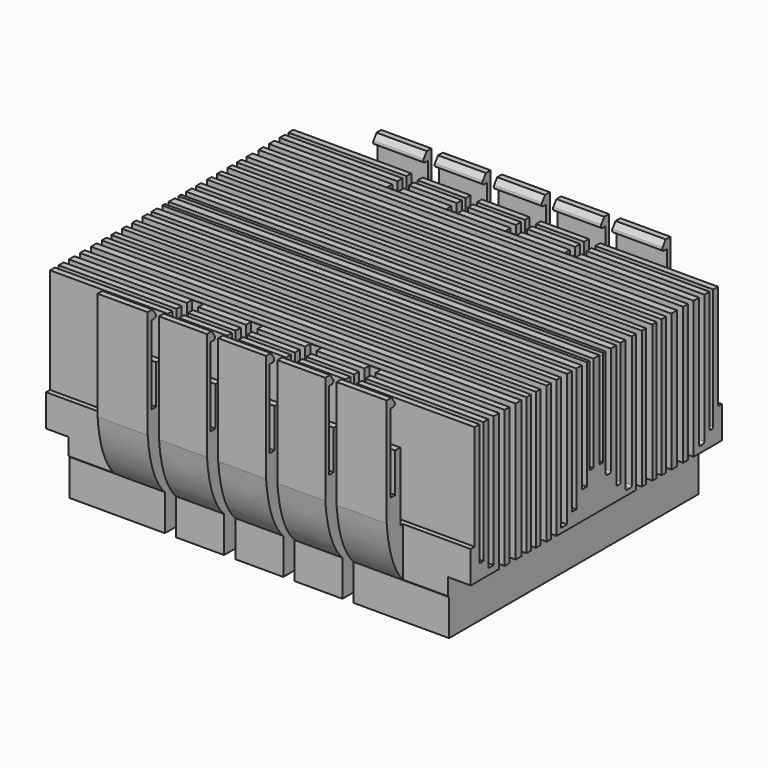
from build123d import *

# Parameters (mm, degrees)
SKETCH027_W     = 94
SKETCH027_H     = 78.5
PAD010_DEPTH    = 45
POCKET013_DEPTH = 354.9473546402
SKETCH034_W     = 80
SKETCH034_H     = 12
POCKET012_DEPTH = 5
SKETCH025_W     = 18
SKETCH025_H     = 45
POCKET023_DEPTH = 4.5
SKETCH026_W     = 2.5
SKETCH026_H     = 15
POCKET022_DEPTH = 305.947355407
POCKET020_DEPTH = 354.947355407
FILLET010_R     = 0.5
FILLET009_R     = 0.4


with BuildPart() as part:
    # Sketch027 → Pad010 (new body)
    with BuildSketch(Plane.XY):
        Rectangle(SKETCH027_W, SKETCH027_H)
    extrude(amount=PAD010_DEPTH)

    # Sketch037 (on Face2 of Pad010) → Pocket013 (cut, through all)
    with BuildSketch(Plane.YZ.offset(47)):
        with BuildLine():
            Line((-39.25, 45), (-39.25, 21))
            add(Edge.make_bspline(
                [(-39.25, 21), (-38.492661, 12.046706), (-34.5, 8)],
                knots=[0, 0, 0, 1, 1, 1], degree=2))
            Line((-34.5, 8), (-34.5, -2))
            Line((-34.5, -2), (-44.25, -2))
            Line((-44.25, -2), (-44.25, 48))
            Line((-44.25, 48), (-39.25, 48))
            Line((-39.25, 48), (-39.25, 45))
        make_face()
    pocket013 = extrude(amount=-POCKET013_DEPTH, mode=Mode.SUBTRACT)

    # Mirrored006: Pocket013 across XZ
    add(pocket013.mirror(Plane.XZ), mode=Mode.SUBTRACT)

    # Sketch034 (on Face3 of Mirrored006) → Pocket012 (cut)
    with BuildSketch(Plane.YZ.offset(47)):
        with Locations((0, 6)):
            Rectangle(SKETCH034_W, SKETCH034_H)
    pocket012 = extrude(amount=-POCKET012_DEPTH, mode=Mode.SUBTRACT)

    # Sketch025 → Pocket023 (cut)
    with BuildSketch(Plane.XZ.offset(39.25)):
        with Locations((41, 22.5)):
            Rectangle(SKETCH025_W, SKETCH025_H)
        with Locations((-41, 22.5)):
            Rectangle(SKETCH025_W, SKETCH025_H)
    pocket023 = extrude(amount=-POCKET023_DEPTH, mode=Mode.SUBTRACT)

    # Mirrored009: Pocket012 across YZ
    add(pocket012.mirror(Plane.YZ), mode=Mode.SUBTRACT)

    # Mirrored008: Pocket023 across XZ
    add(pocket023.mirror(Plane.XZ), mode=Mode.SUBTRACT)

    # Sketch026 (on Face22 of Mirrored008) → Pocket022 (cut, through all)
    with BuildSketch(Plane(origin=(0, 0, 0), x_dir=(1, 0, 0), z_dir=(0, 0, -1))):
        with Locations((-19.65, 34.5)):
            Rectangle(SKETCH026_W, SKETCH026_H)
        with Locations((-6.55, 34.5)):
            Rectangle(SKETCH026_W, SKETCH026_H)
        with Locations((6.55, 34.5)):
            Rectangle(SKETCH026_W, SKETCH026_H)
        with Locations((19.65, 34.5)):
            Rectangle(SKETCH026_W, SKETCH026_H)
    pocket022 = extrude(amount=-POCKET022_DEPTH, mode=Mode.SUBTRACT)

    # Mirrored011: Pocket022 across XZ
    add(pocket022.mirror(Plane.XZ), mode=Mode.SUBTRACT)

    # Sketch038 (on Face28 of Mirrored011) → Pocket020 (cut, through all)
    with BuildSketch(Plane.YZ.offset(47)):
        Polygon((38.25, 25.6222676381), (38.25, 42.998202), (36.517265, 42.998202), (38.777225, 46.159061), (0, 46.159061), (0, 42.412102), (0.829261, 42.412102), (0.829261, 21.0901893452), (1.904185, 21.0901893452), (1.904185, 42.412102), (2.5987329142, 42.412102), (2.5987329142, 18.1838636465), (4.014415, 18.1838636465), (4.014415, 42.412102), (5.5467106804, 42.412102), (5.5467106804, 14.9644027984), (6.754822, 14.9644027984), (6.754822, 42.412102), (8.103997, 42.412102), (8.103997, 13.0594597817), (9.811914, 13.0594597817), (9.811914, 42.412102), (11.012073, 42.412102), (11.012073, 11.5512468903), (12.587415, 11.5512468903), (12.587415, 42.412102), (13.756799, 42.412102), (13.756799, 10.6294663318), (15.490436, 10.6294663318), (15.490436, 42.412102), (16.7161969428, 42.412102), (16.7161969428, 10.102149401), (18.05093, 10.102149401), (18.05093, 42.412102), (19.318615, 42.412102), (19.318615, 10.1032621817), (20.764729, 10.1032621817), (20.764729, 42.412102), (22.348564, 42.412102), (22.348564, 10.7183829978), (24.047173, 10.7183829978), (24.047173, 42.412102), (25.378515, 42.412102), (25.378515, 11.7499618581), (26.916443, 11.7499618581), (26.916443, 42.412102), (28.431421, 42.412102), (28.431421, 13.3914519269), (29.877531, 13.3914519269), (29.877531, 42.412102), (31.277737, 42.412102), (31.277737, 15.3344891805), (32.333626, 15.3344891805), (32.333626, 42.412102), (33.66497, 42.412102), (33.66497, 19.0988326219), (35.502956, 19.0988326219), (35.502956, 34.299774), (36.930859, 34.299774), (36.930859, 25.6222676381), align=None)
    pocket020 = extrude(amount=-POCKET020_DEPTH, mode=Mode.SUBTRACT)

    # Mirrored007: Pocket020 across Sketch038 V_Axis
    add(pocket020.mirror(Plane(origin=(47, 0, 0), x_dir=(1, 0, 0), z_dir=(0, 1, 0))), mode=Mode.SUBTRACT)

    # Fillet010
    fillet010_edges = [part.edges().sort_by_distance(p)[0] for p in [
        (26.45, -36.517265, 42.998202),
        (13.1, -36.517265, 42.998202),
        (0, -36.517265, 42.998202),
        (-13.1, -36.517265, 42.998202),
        (-26.45, -36.517265, 42.998202),
        (26.45, 36.517265, 42.998202),
        (13.1, 36.517265, 42.998202),
        (0, 36.517265, 42.998202),
        (-13.1, 36.517265, 42.998202),
        (-26.45, 36.517265, 42.998202),
    ]]
    fillet(fillet010_edges, radius=FILLET010_R)

    # Fillet009
    fillet009_edges = [part.edges().sort_by_distance(p)[0] for p in [
        (26.45, 36.930859, 25.622268),
        (26.45, 38.25, 25.622268),
        (26.45, 35.502956, 19.098833),
        (33.95, 33.66497, 19.098833),
        (33.95, 32.333626, 15.334489),
        (33.95, 31.277737, 15.334489),
        (33.95, 29.877531, 13.391452),
        (33.95, 28.431421, 13.391452),
        (0, 26.916443, 11.749962),
        (0, 25.378515, 11.749962),
        (0, 24.047173, 10.718383),
        (0, 22.348564, 10.718383),
        (0, 20.764729, 10.103262),
        (0, 19.318615, 10.103262),
        (0, 18.05093, 10.102149),
        (0, 16.716197, 10.102149),
        (0, 15.490436, 10.629466),
        (0, 13.756799, 10.629466),
        (0, 12.587415, 11.551247),
        (0, 11.012073, 11.551247),
        (0, 9.811914, 13.05946),
        (0, 8.103997, 13.05946),
        (0, 6.754822, 14.964403),
        (0, 5.546711, 14.964403),
        (0, 4.014415, 18.183864),
        (0, 2.598733, 18.183864),
    ]]
    fillet(fillet009_edges, radius=FILLET009_R)


with BuildPart() as part_1:
    # Body014 placement: moved
    add(part.part.moved(Location((0, -190, 85))))


solid = part_1.part
